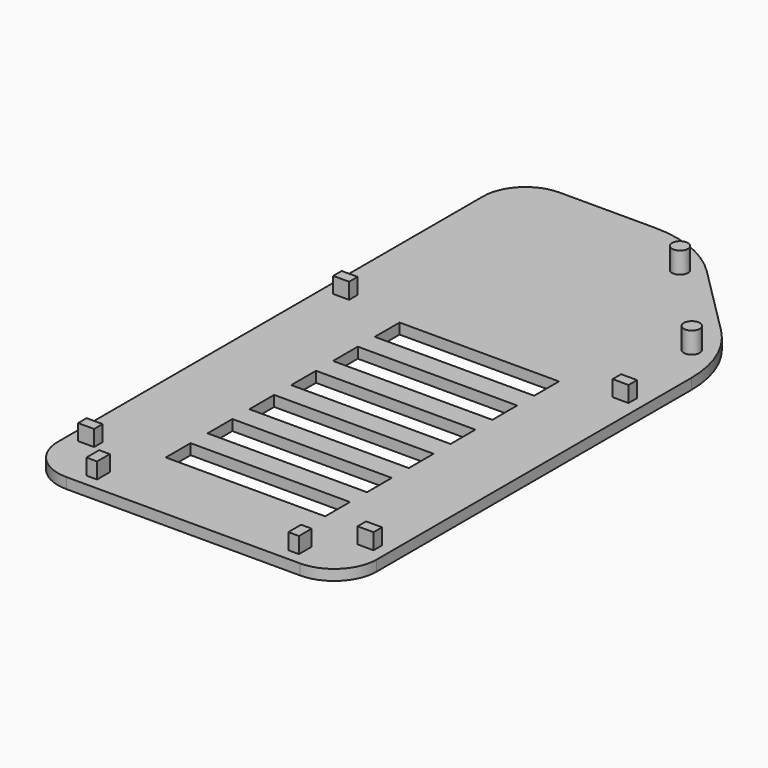
from build123d import *

# Parameters (mm, degrees)
PAD_DEPTH     = 2
SKETCH002_W   = 2
SKETCH002_H   = 3
SKETCH002_W_2 = 3
SKETCH002_H_2 = 2
PAD001_DEPTH  = 3
SKETCH003_W   = 30
SKETCH003_H   = 5.833333
SKETCH003_H_2 = 5.833334
POCKET_DEPTH  = 5
SKETCH004_R   = 1.5
PAD002_DEPTH  = 4


with BuildPart() as part:
    # Sketch → Pad (new body)
    with BuildSketch(Plane.XY):
        with BuildLine():
            Line((60, 8), (60, 82.000001))
            ThreePointArc((60, 82.000001), (58.434586, 89.869877), (53.976662, 96.541638))
            Line((40.541631, 109.976664), (53.976662, 96.541638))
            ThreePointArc((40.541631, 109.976664), (33.869872, 114.434584), (25.999999, 115.999997))
            Line((7.999999, 115.999997), (25.999999, 115.999997))
            ThreePointArc((7.999999, 115.999997), (2.343146, 113.656851), (0, 107.999998))
            Line((0, 107.999998), (0, 8))
            ThreePointArc((0, 8), (2.343146, 2.343146), (8, 0))
            Line((8, 0), (52, 0))
            ThreePointArc((52, 0), (57.656854, 2.343146), (60, 8))
        make_face()
    extrude(amount=PAD_DEPTH)

    # Sketch002 → Pad001 (new body)
    with BuildSketch(Plane.XY.offset(2)):
        with Locations((11, 3.7)):
            Rectangle(SKETCH002_W, SKETCH002_H)
        with Locations((3.7, 11)):
            Rectangle(SKETCH002_W_2, SKETCH002_H_2)
        with Locations((49, 3.7)):
            Rectangle(SKETCH002_W, SKETCH002_H)
        with Locations((56.3, 11)):
            Rectangle(SKETCH002_W_2, SKETCH002_H_2)
        with Locations((56.3, 71)):
            Rectangle(SKETCH002_W_2, SKETCH002_H_2)
        with Locations((3.7, 71)):
            Rectangle(SKETCH002_W_2, SKETCH002_H_2)
    extrude(amount=PAD001_DEPTH)

    # Sketch003 → Pocket (cut)
    with BuildSketch(Plane.XY.offset(2)):
        with Locations((30.5, 66.083333)):
            Rectangle(SKETCH003_W, SKETCH003_H)
        with Locations((30.5, 56.25)):
            Rectangle(SKETCH003_W, SKETCH003_H_2)
        with Locations((30.5, 46.416666)):
            Rectangle(SKETCH003_W, SKETCH003_H)
        with Locations((30.5, 36.583333)):
            Rectangle(SKETCH003_W, SKETCH003_H)
        with Locations((30.5, 26.75)):
            Rectangle(SKETCH003_W, SKETCH003_H_2)
        with Locations((30.5, 16.916666)):
            Rectangle(SKETCH003_W, SKETCH003_H)
    extrude(amount=-POCKET_DEPTH, mode=Mode.SUBTRACT)

    # Sketch004 → Pad002 (new body)
    with BuildSketch(Plane.XY.offset(2)):
        with Locations((37.247765, 107.8)):
            Circle(SKETCH004_R)
        with Locations((54.5, 89)):
            Circle(SKETCH004_R)
    extrude(amount=PAD002_DEPTH)


solid = part.part
